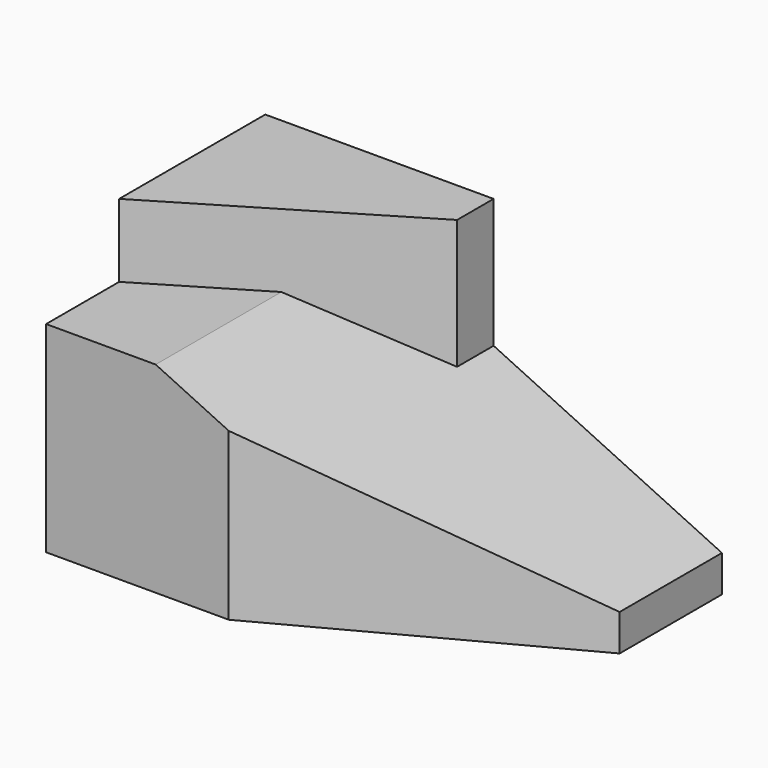
from build123d import *

# Parameters (mm, degrees)
F1_DEPTH = 30
F3_DEPTH = 22.001
F4_DEPTH = 30


with BuildPart() as f1:
    # F0 (on Front) → F1 (new body)
    with BuildSketch(Plane.XZ):
        Polygon((0, 22), (0, 0), (50, 0), (50, 4), (12, 22), align=None)
    extrude(amount=-F1_DEPTH)

    # F2 (on face) → F3 (cut, through all)
    with BuildSketch(Plane(origin=(0, 0, 0), x_dir=(1, 0, 0), z_dir=(0, 0, -1))):
        Polygon((20, 0), (50, -16), (50, 0), align=None)
    extrude(amount=-F3_DEPTH, mode=Mode.SUBTRACT)

    # F2 (on face) → F4 (join)
    with BuildSketch(Plane(origin=(0, 0, 0), x_dir=(1, 0, 0), z_dir=(0, 0, -1))):
        Polygon((0, -30), (25, -30), (25, -25), (0, -10), align=None)
    extrude(amount=-F4_DEPTH)


solid = f1.part
